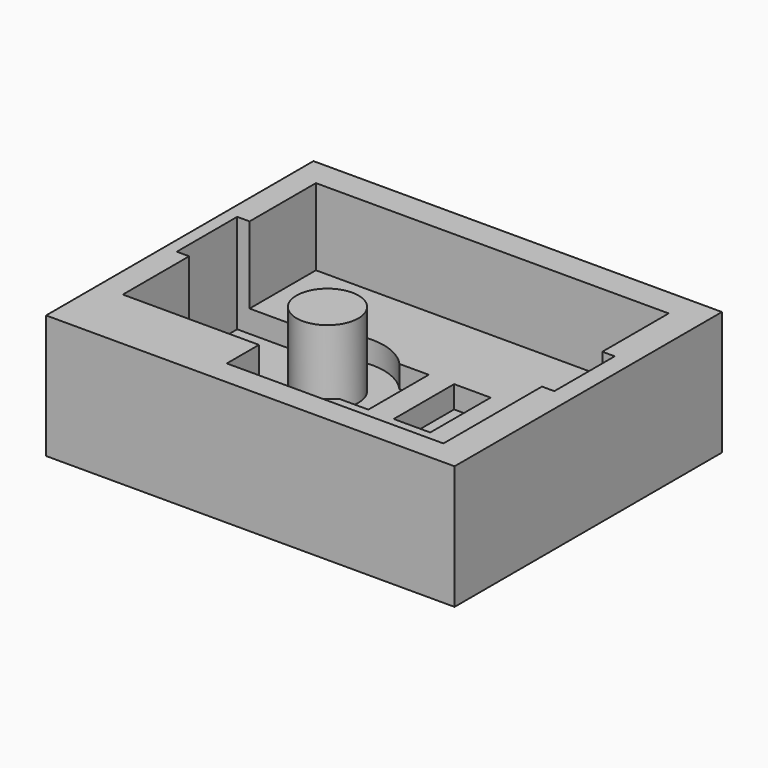
from build123d import *

# Parameters (mm, degrees)
PAD004_DEPTH             = 8.2
SKETCH014_W              = 28.5
SKETCH014_H              = 6.1
PAD005_DEPTH             = 1.8
SKETCH015_R              = 2.9
POCKET004_DEPTH          = 0.6
SKETCH016_W              = 2.05
SKETCH016_H              = 6.1
POCKET005_DEPTH          = 1.8
CLONE012_PLACEMENT_ANGLE = 180
BOX_W                    = 33
BOX_H                    = 27
BOX_DEPTH                = 10
SKETCH_W                 = 3
SKETCH_H                 = 3.25
POCKET009_DEPTH          = 6.2
SKETCH021_W              = 1
SKETCH021_H              = 6.1
POCKET010_DEPTH          = 8
SKETCH022_R              = 4.55
POCKET011_DEPTH          = 1.8
SKETCH023_R              = 2.5
PAD_DEPTH                = 6


with BuildPart() as body011:
    # Sketch013 → Pad004 (new body)
    with BuildSketch(Plane.XY):
        with BuildLine():
            Line((0, 0), (28.5, 0))
            Line((28.5, 0), (28.5, 22.75))
            Line((28.5, 22.75), (14, 22.75))
            Line((14, 22.75), (14, 22.5))
            ThreePointArc((11, 19.5), (13.12132, 20.37868), (14, 22.5))
            Line((11, 19.5), (0, 19.5))
            Line((0, 19.5), (0, 0))
        make_face()
    extrude(amount=PAD004_DEPTH)

    # Sketch014 (on Face9 of Pad004) → Pad005 (join)
    with BuildSketch(Plane.XY.offset(8.2)):
        with Locations((14.25, 9.75)):
            Rectangle(SKETCH014_W, SKETCH014_H)
    extrude(amount=PAD005_DEPTH)

    # Sketch015 (on Face11 of Pad005) → Pocket004 (cut)
    with BuildSketch(Plane.XY.offset(10)):
        with Locations((8.735056, 9.75)):
            Circle(SKETCH015_R)
    extrude(amount=-POCKET004_DEPTH, mode=Mode.SUBTRACT)

    # Sketch016 (on Face10 of Pocket004) → Pocket005 (cut)
    with BuildSketch(Plane.XY.offset(10)):
        with Locations((15.5, 9.75)):
            Rectangle(SKETCH016_W, SKETCH016_H)
        Polygon((21.525, 12.8), (21.525, 6.7), (19.475, 6.7), (19.475, 12.8), (20.5, 12.8), align=None)
        with Locations((25.5, 9.75)):
            Rectangle(SKETCH016_W, SKETCH016_H)
    extrude(amount=-POCKET005_DEPTH, mode=Mode.SUBTRACT)


with BuildPart() as body011_1:
    # Clone012 placement: moved
    add(body011.part.moved(Location((0, 22.75, 12))).rotate(Axis((0, 22.75, 12), (1, 0, 0)), CLONE012_PLACEMENT_ANGLE))


with BuildPart() as model_body012:
    # Box → Box (new body)
    with BuildSketch(Plane(origin=(-2, -2, 0), x_dir=(1, 0, 0), z_dir=(0, 0, 1))):
        with Locations((16.5, 13.5)):
            Rectangle(BOX_W, BOX_H)
    extrude(amount=BOX_DEPTH)

    # Cut: cut Body011
    add(body011_1.part, mode=Mode.SUBTRACT)

    # Sketch (on Face3 of BaseFeature001) → Pocket009 (cut)
    with BuildSketch(Plane.XY.offset(10)):
        with Locations((12.5, 1.625)):
            Rectangle(SKETCH_W, SKETCH_H)
    extrude(amount=-POCKET009_DEPTH, mode=Mode.SUBTRACT)

    # Sketch021 (on Face3 of Pocket009) → Pocket010 (cut)
    with BuildSketch(Plane.XY.offset(10)):
        with Locations((-0.5, 13)):
            Rectangle(SKETCH021_W, SKETCH021_H)
        with Locations((29, 13)):
            Rectangle(SKETCH021_W, SKETCH021_H)
    extrude(amount=-POCKET010_DEPTH, mode=Mode.SUBTRACT)

    # Sketch022 (on Face17 of Pocket010) → Pocket011 (cut)
    with BuildSketch(Plane.XY.offset(3.8)):
        with Locations((8.735056, 13)):
            Circle(SKETCH022_R)
    extrude(amount=-POCKET011_DEPTH, mode=Mode.SUBTRACT)

    # Sketch023 (on Face39 of Pocket011) → Pad (join)
    with BuildSketch(Plane.XY.offset(2)):
        with Locations((8.735056, 13)):
            Circle(SKETCH023_R)
    extrude(amount=PAD_DEPTH)


solid = model_body012.part
